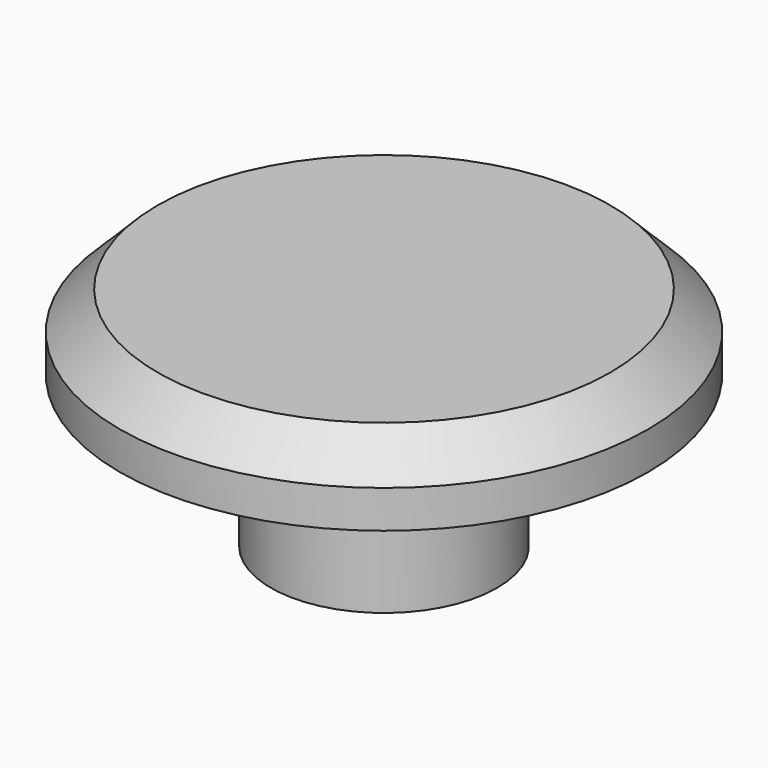
from build123d import *

# Parameters (mm, degrees)
F0_R     = 7
F1_DEPTH = 2
F2_SIZE  = 1
F3_R     = 3
F4_DEPTH = 4


with BuildPart() as f1:
    # F0 (on Top) → F1 (new body)
    with BuildSketch(Plane.XY):
        Circle(F0_R)
    extrude(amount=F1_DEPTH)

    # F2
    f2_edges = [f1.edges().sort_by_distance(p)[0] for p in [
        (-7, 0, 2),
    ]]
    chamfer(f2_edges, length=F2_SIZE)

    # F3 (on face) → F4 (join)
    with BuildSketch(Plane(origin=(0, 0, 0), x_dir=(1, 0, 0), z_dir=(0, 0, -1))):
        Circle(F3_R)
    extrude(amount=F4_DEPTH)


solid = f1.part
